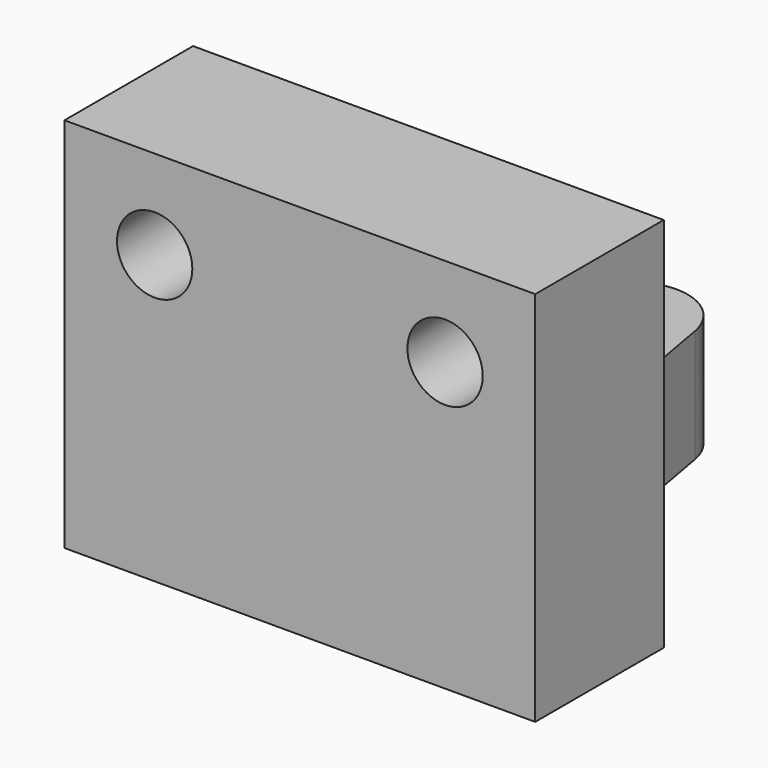
from build123d import *

# Parameters (mm, degrees)
PAD_DEPTH    = 6
SKETCH_W     = 25
SKETCH_H     = 8.532326
PAD001_DEPTH = 14
SKETCH002_R  = 2
POCKET_DEPTH = 25.001


with BuildPart() as part:
    # Sketch001 → Pad (new body)
    with BuildSketch(Plane.XY):
        with BuildLine():
            Line((0, -0.513451), (12.5, -0.513451))
            Line((12.5, -0.513451), (12.5, 8.018875))
            Line((12.5, 8.018875), (5.444822, 8.018875))
            Line((5.444822, 8.018875), (2.947073, 22.018734))
            ThreePointArc((2.947073, 22.018734), (1.921936, 23.788122), (0, 24.486549))
            ThreePointArc((0, 24.486549), (-1.921936, 23.788122), (-2.947073, 22.018734))
            Line((-5.444822, 8.018875), (-2.947073, 22.018734))
            Line((-12.5, 8.018875), (-5.444822, 8.018875))
            Line((-12.5, -0.513451), (-12.5, 8.018875))
            Line((0, -0.513451), (-12.5, -0.513451))
        make_face()
    extrude(amount=PAD_DEPTH)

    # Sketch → Pad001 (new body)
    with BuildSketch(Plane.XY.offset(6)):
        with Locations((0, 3.752712)):
            Rectangle(SKETCH_W, SKETCH_H)
    extrude(amount=PAD001_DEPTH)

    # Sketch002 → Pocket (cut, through all)
    with BuildSketch(Plane.XZ.offset(0.513451)):
        with Locations((-7.711432, 15.261821)):
            Circle(SKETCH002_R)
        with Locations((7.711432, 15.261821)):
            Circle(SKETCH002_R)
    extrude(amount=-POCKET_DEPTH, mode=Mode.SUBTRACT)


solid = part.part
